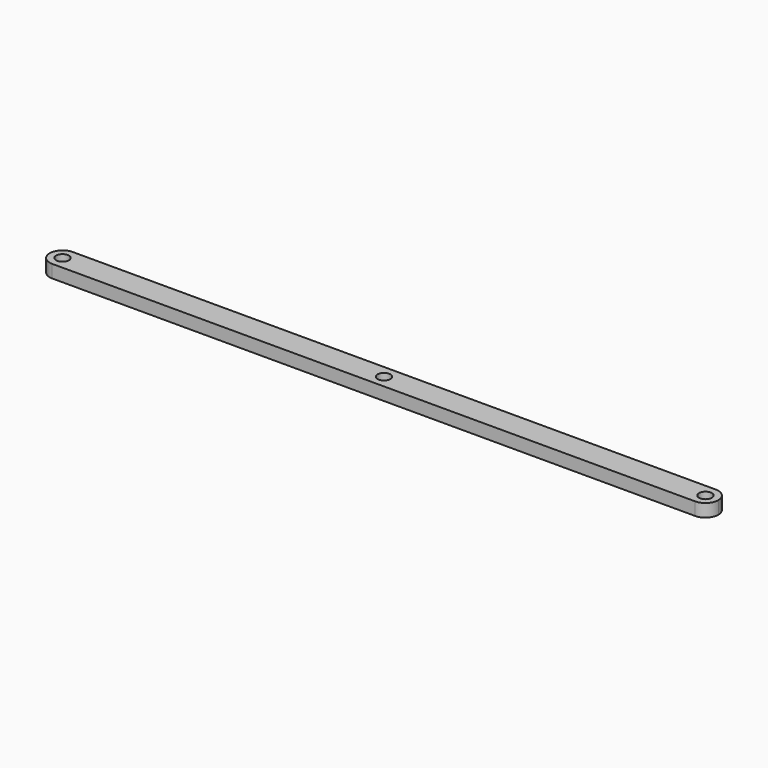
from build123d import *

# Parameters (mm, degrees)
F0_R     = 2
F1_DEPTH = 4


with BuildPart() as f1:
    # F0 (on Top) → F1 (new body)
    with BuildSketch(Plane.XY):
        with BuildLine():
            ThreePointArc((0, -4), (2.828427, -2.828427), (4, 0))
            ThreePointArc((4, 0), (2.828427, 2.828427), (0, 4))
            ThreePointArc((0, 4), (-4, 0), (0, -4))
        make_face()
        Circle(F0_R, mode=Mode.SUBTRACT)
        with BuildLine():
            ThreePointArc((0, 4), (2.828427, 2.828427), (4, 0))
            ThreePointArc((4, 0), (2.828427, -2.828427), (0, -4))
            Line((0, -4), (200, -4))
            ThreePointArc((200, -4), (196, 0), (200, 4))
            Line((200, 4), (0, 4))
        make_face()
        with Locations((100, 0)):
            Circle(F0_R, mode=Mode.SUBTRACT)
        with BuildLine():
            ThreePointArc((204, 0), (202.828427, 2.828427), (200, 4))
            ThreePointArc((200, 4), (196, 0), (200, -4))
            ThreePointArc((200, -4), (202.828427, -2.828427), (204, 0))
        make_face()
        with Locations((200, 0)):
            Circle(F0_R, mode=Mode.SUBTRACT)
    extrude(amount=F1_DEPTH)


solid = f1.part
